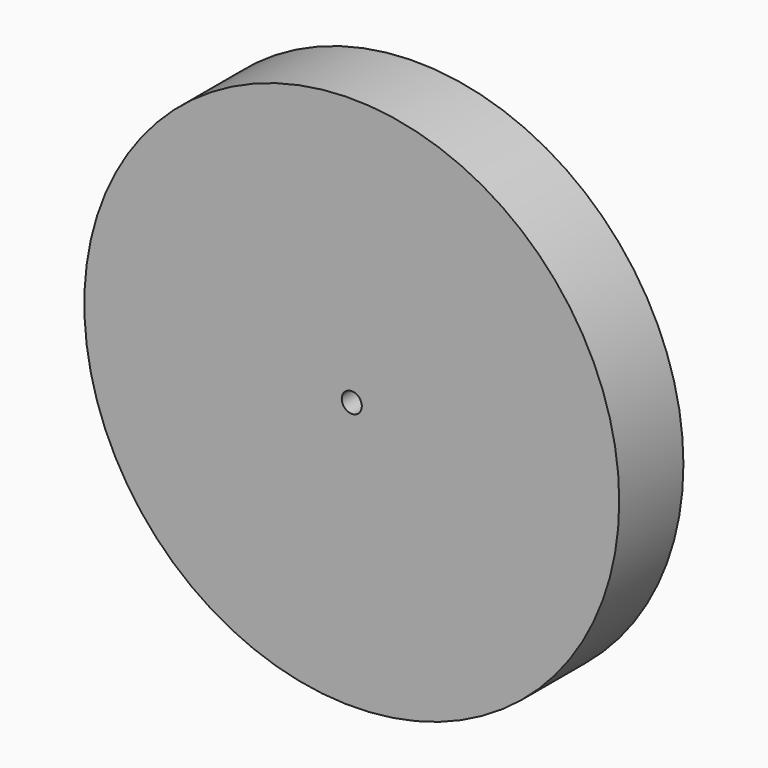
from build123d import *

# Parameters (mm, degrees)
F0_R     = 127
F1_DEPTH = 19.05
F3_D     = 9.525


with BuildPart() as f1:
    # F0 (on Front) → F1 (new body, symmetric)
    with BuildSketch(Plane.XZ):
        Circle(F0_R)
    extrude(amount=F1_DEPTH, both=True)

    # F3 (through all)
    with Locations(Plane.XZ.offset(19.05)):
        with Locations((0, 0)):
            Hole(F3_D / 2)


solid = f1.part
